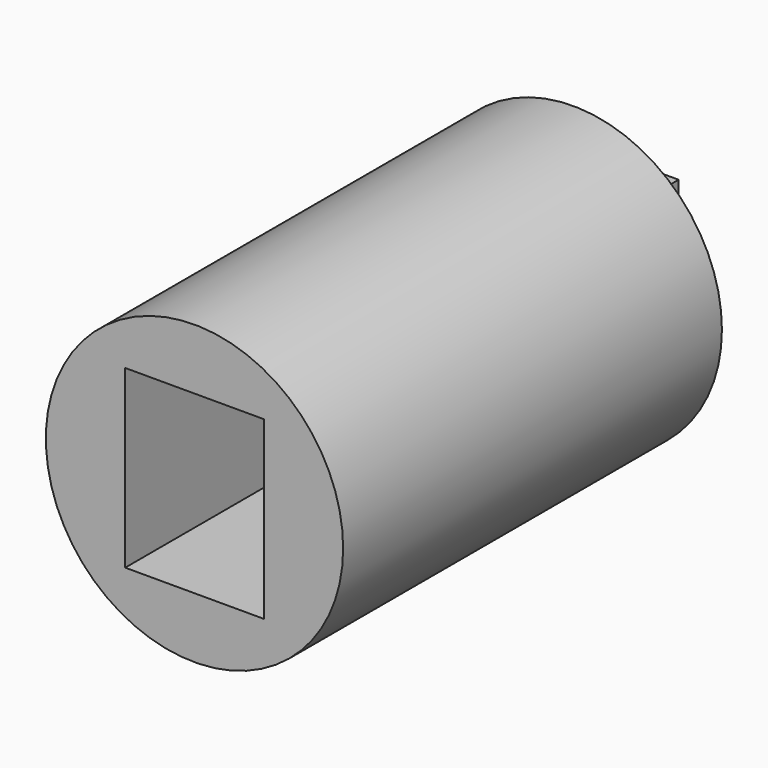
from build123d import *

# Parameters (mm, degrees)
F0_W     = 78.12427
F0_H     = 99.13855
F1_DEPTH = 25.4
F2_R     = 83.825623
F2_W     = 78.12427
F2_H     = 99.13855
F3_DEPTH = 267.004684


with BuildPart() as f1:
    # F0 (on Front) → F1 (new body)
    with BuildSketch(Plane.XZ):
        Rectangle(F0_W, F0_H)
    extrude(amount=F1_DEPTH)


with BuildPart() as f3:
    # F2 (on face) → F3 (new body)
    with BuildSketch(Plane.XZ.offset(25.4)):
        Circle(F2_R)
        Rectangle(F2_W, F2_H, mode=Mode.SUBTRACT)
    extrude(amount=F3_DEPTH)


solid = Compound([f1.part, f3.part])
